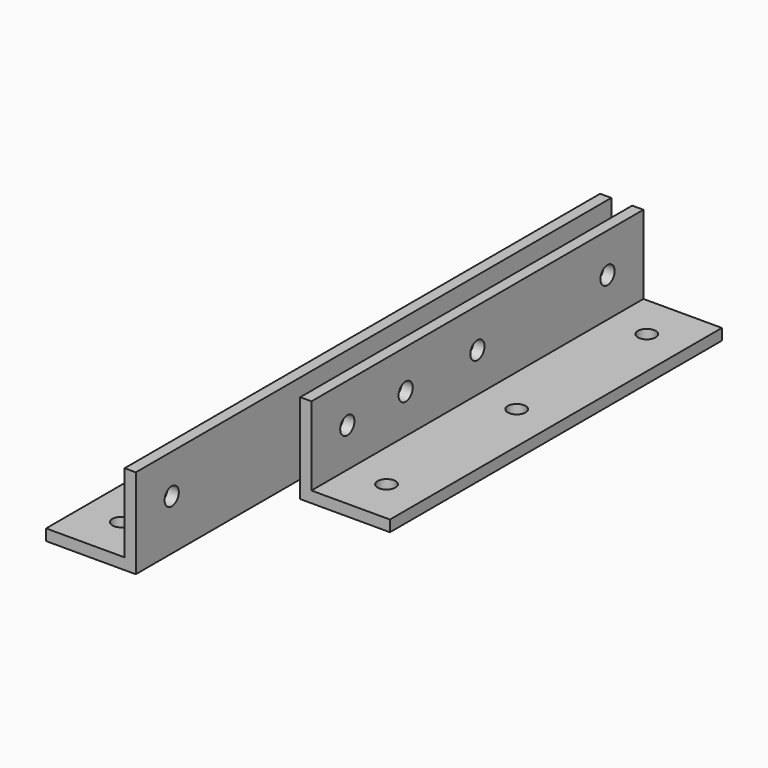
from build123d import *

# Parameters (mm, degrees)
F1_DEPTH   = 234.95
F4_D       = 10.0838
F4_ON_F2_D = 10.0838
F6_DEPTH   = 336.55
F9_D       = 10.0838
F9_2_D     = 10.0838
F9_ON_F7_D = 10.0838


with BuildPart() as f1:
    # F0 (on Front) → F1 (new body)
    with BuildSketch(Plane.XZ):
        Polygon((0, 50.8), (0, 0), (50.8, 0), (50.8, 6.35), (6.35, 6.35), (6.35, 50.8), align=None)
    extrude(amount=F1_DEPTH)

    # F4 (through all)
    with Locations(Plane.YZ.offset(6.35)):
        with Locations((-25.4, 28.575), (-117.475, 28.575), (-209.55, 28.575)):
            Hole(F4_D / 2)

    # F4 on F2 (through all)
    with Locations(Plane.XY.offset(6.35)):
        with Locations((28.575, -209.55), (28.575, -25.4), (28.575, -117.475)):
            Hole(F4_ON_F2_D / 2)

    # F9 (through all)
    with Locations(Plane(origin=(-18.1706255869, 0, 0), x_dir=(0, -1, 0), z_dir=(-1, 0, 0))):
        with Locations((25.4, 28.575), (168.275, 28.575), (311.15, 28.575)):
            Hole(F9_D / 2)


with BuildPart() as f6:
    # F5 (on Front) → F6 (new body)
    with BuildSketch(Plane.XZ):
        Polygon((-62.6206255869, 0), (-11.8206255869, 0), (-11.8206255869, 50.8), (-18.1706255869, 50.8), (-18.1706255869, 6.35), (-62.6206255869, 6.35), align=None)
    extrude(amount=F6_DEPTH)

    # F9#2 (through all)
    with Locations(Plane(origin=(-18.1706255869, 0, 0), x_dir=(0, -1, 0), z_dir=(-1, 0, 0))):
        with Locations((25.4, 28.575), (168.275, 28.575), (311.15, 28.575)):
            Hole(F9_2_D / 2)

    # F9 on F7 (through all)
    with Locations(Plane.XY.offset(6.35)):
        with Locations((-40.3956255869, -168.275), (-40.3956255869, -25.4), (-40.3956255869, -311.15)):
            Hole(F9_ON_F7_D / 2)


solid = Compound([f1.part, f6.part])
